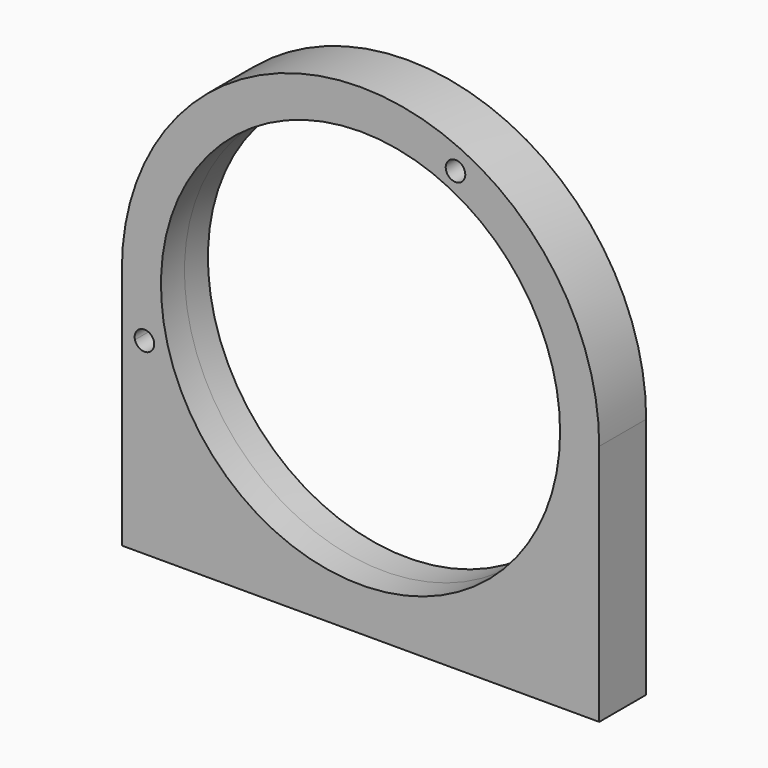
from build123d import *

# Parameters (mm, degrees)
F0_R          = 3.175
F1_DEPTH      = 9.525
F1_DEPTH_BACK = 9.525


with BuildPart() as f1:
    # F0 (on Front) → F1 (new body, two sides)
    with BuildSketch(Plane.XZ) as f1_sk:
        with BuildLine():
            Line((-67.0481007232, -17.009518783), (-62.7812233427, -15.9270491803))
            ThreePointArc((-62.7812233427, -15.9270491803), (-51.1211691739, 39.7715848602), (0, 64.77))
            Line((0, 64.77), (0, 77.47))
            ThreePointArc((0, 77.47), (-54.7795623385, 54.7795623385), (-77.47, 0))
            ThreePointArc((-77.47, 0), (-76.8730166085, -9.5989696067), (-75.0912671354, -19.05))
            Line((-75.0912671354, -19.05), (-73.2031226195, -18.5709941928))
            ThreePointArc((-73.2031226195, -18.5709941928), (-70.9063493763, -14.7127455397), (-67.0481007232, -17.009518783))
        make_face()
        with BuildLine():
            ThreePointArc((64.77, 0), (8.0253680318, -64.2708827382), (-62.7812233427, -15.9270491803))
            Line((-62.7812233427, -15.9270491803), (-67.0481007232, -17.009518783))
            ThreePointArc((-67.0481007232, -17.009518783), (-66.9750782038, -17.3968560942), (-66.9506116714, -17.7902564879))
            ThreePointArc((-66.9506116714, -17.7902564879), (-69.7322112776, -20.9407899554), (-73.2031226195, -18.5709941928))
            Line((-73.2031226195, -18.5709941928), (-75.0912671354, -19.05))
            ThreePointArc((-75.0912671354, -19.05), (9.5989696067, -76.8730166085), (77.47, 0))
            ThreePointArc((77.47, 0), (54.7795623385, 54.7795623385), (0, 77.47))
            Line((0, 77.47), (0, 64.77))
            ThreePointArc((0, 64.77), (45.7993062175, 45.7993062175), (64.77, 0))
        make_face()
        with Locations((30.8258392699, 63.5)):
            Circle(F0_R, mode=Mode.SUBTRACT)
        with BuildLine():
            Line((77.47, -78.74), (77.47, 0))
            ThreePointArc((77.47, 0), (9.5989696067, -76.8730166085), (-75.0912671354, -19.05))
            Line((-75.0912671354, -19.05), (-77.47, -19.6534637954))
            Line((-77.47, -19.6534637954), (-77.47, -78.74))
            Line((-77.47, -78.74), (77.47, -78.74))
        make_face()
        with BuildLine():
            ThreePointArc((-75.0912671354, -19.05), (-76.8730166085, -9.5989696067), (-77.47, 0))
            Line((-77.47, 0), (-77.47, -19.6534637954))
            Line((-77.47, -19.6534637954), (-75.0912671354, -19.05))
        make_face()
    extrude(amount=F1_DEPTH)
    extrude(f1_sk.sketch, amount=-F1_DEPTH_BACK)


solid = f1.part
